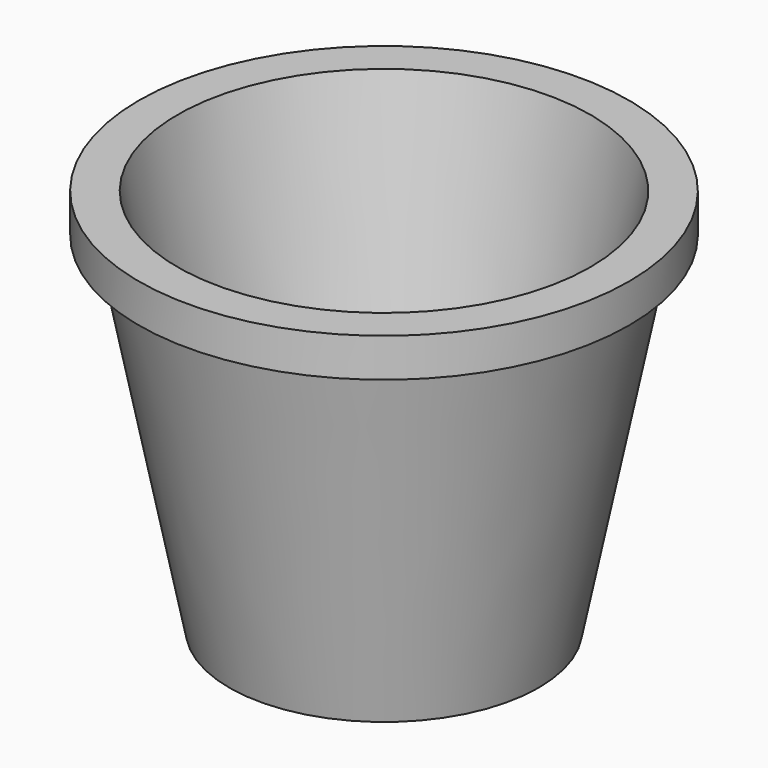
from build123d import *

# Parameters (mm, degrees)
SKETCH_R      = 10
POCKET_DEPTH  = 5
SKETCH001_R   = 95
SKETCH001_R_2 = 82.96172
PAD_DEPTH     = 15


with BuildPart() as kegel001:
    # Cone001 → Cone001 (revolve)
    with BuildSketch(Plane(origin=(0, 0, 5), x_dir=(1, 0, 0), z_dir=(0, -1, 0))):
        Polygon((0, 0), (50, 0), (80, 145), (0, 145), align=None)
    revolve(axis=Axis((0, 0, 5), (0, 0, 1)))


with BuildPart() as pocket:
    # Cone → Cone (revolve)
    with BuildSketch(Plane.XZ):
        Polygon((0, 0), (60, 0), (90, 150), (0, 150), align=None)
    revolve(axis=Axis((0, 0, 0), (0, 0, 1)))

    # Cut: cut Kegel001
    add(kegel001.part, mode=Mode.SUBTRACT)

    # Sketch → Pocket (cut)
    with BuildSketch(Plane(origin=(0, 0, 0), x_dir=(1, 0, 0), z_dir=(0, 0, -1))):
        Circle(SKETCH_R)
    extrude(amount=-POCKET_DEPTH, mode=Mode.SUBTRACT)


with BuildPart() as obj1:
    # Sketch001 → Pad (new body)
    with BuildSketch(Plane.XY.offset(150)):
        Circle(SKETCH001_R)
        Circle(SKETCH001_R_2, mode=Mode.SUBTRACT)
    extrude(amount=-PAD_DEPTH)

    # Fusion: union Pocket
    add(pocket.part)


solid = obj1.part
